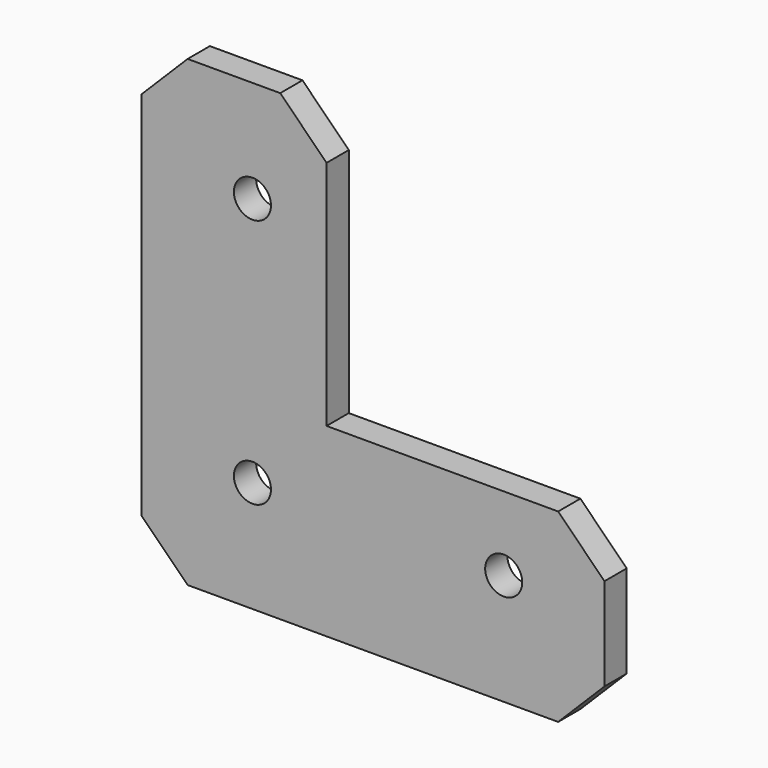
from build123d import *

# Parameters (mm, degrees)
F0_R     = 2
F1_DEPTH = 3
F2_SIZE  = 5


with BuildPart() as f1:
    # F0 (on Front) → F1 (new body)
    with BuildSketch(Plane.XZ):
        Polygon((-35.773953, 50), (-55.773953, 50), (-55.773953, 0), (-5.773953, 0), (-5.773953, 20), (-35.773953, 20), align=None)
        with Locations((-43.773953, 12)):
            Circle(F0_R, mode=Mode.SUBTRACT)
        with Locations((-16.65267, 12)):
            Circle(F0_R, mode=Mode.SUBTRACT)
        with Locations((-43.773953, 38.991082)):
            Circle(F0_R, mode=Mode.SUBTRACT)
    extrude(amount=F1_DEPTH)

    # F2
    f2_edges = [f1.edges().sort_by_distance(p)[0] for p in [
        (-55.773953, -1.5, 50),
        (-35.773953, -1.5, 50),
        (-5.773953, -1.5, 20),
        (-5.773953, -1.5, 0),
        (-55.773953, -1.5, 0),
    ]]
    chamfer(f2_edges, length=F2_SIZE)


solid = f1.part
